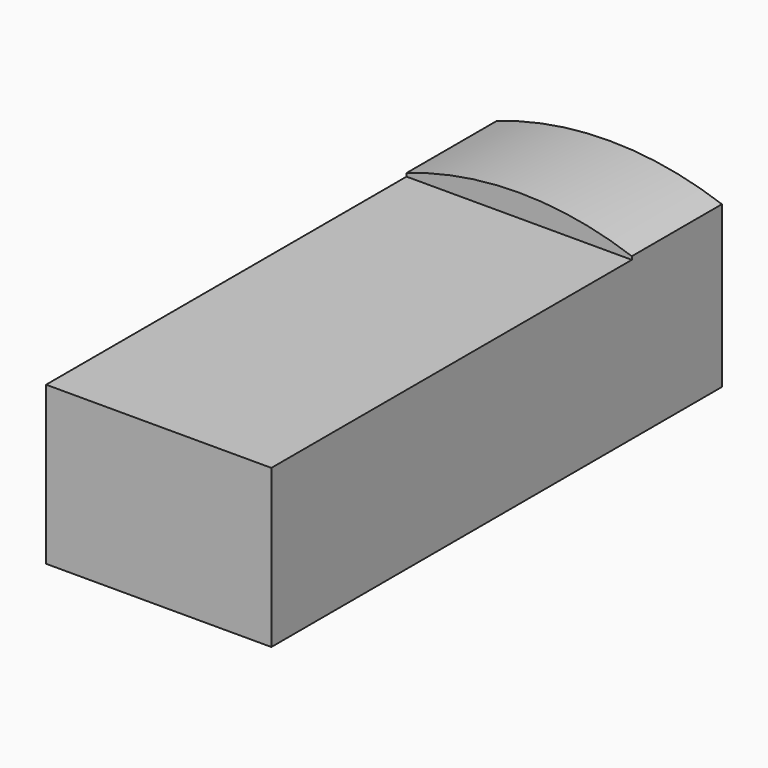
from build123d import *

# Parameters (mm, degrees)
BOX001_W            = 10
BOX001_H            = 20
BOX001_DEPTH        = 10
BOX_W               = 10
BOX_H               = 30
BOX_DEPTH           = 8
CYLINDER_R          = 15
CYLINDER_DEPTH      = 30
CYLINDER_ROLL_ANGLE = 90


with BuildPart() as flat_top:
    # Box001 → Box001 (new body)
    with BuildSketch(Plane.XY.offset(7)):
        with Locations((5, 10)):
            Rectangle(BOX001_W, BOX001_H)
    extrude(amount=BOX001_DEPTH)


with BuildPart() as pin:
    # Box → Box (new body)
    with BuildSketch(Plane.XY):
        with Locations((5, 15)):
            Rectangle(BOX_W, BOX_H)
    extrude(amount=BOX_DEPTH)


with BuildPart() as cut:
    # Cylinder → Cylinder (new body)
    with BuildSketch(Plane.XY):
        Circle(CYLINDER_R)
    extrude(amount=CYLINDER_DEPTH)


with BuildPart() as cut_1:
    # Cylinder roll: moved
    add(cut.part.rotate(Axis((0, 0, 0), (1, 0, 0)), CYLINDER_ROLL_ANGLE))


with BuildPart() as cut_2:
    # Cylinder placement: moved
    add(cut_1.part.moved(Location((5, 25, -7))))

    # Common: intersect pin
    add(pin.part, mode=Mode.INTERSECT)

    # Cut: cut flat_top
    add(flat_top.part, mode=Mode.SUBTRACT)


solid = cut_2.part
